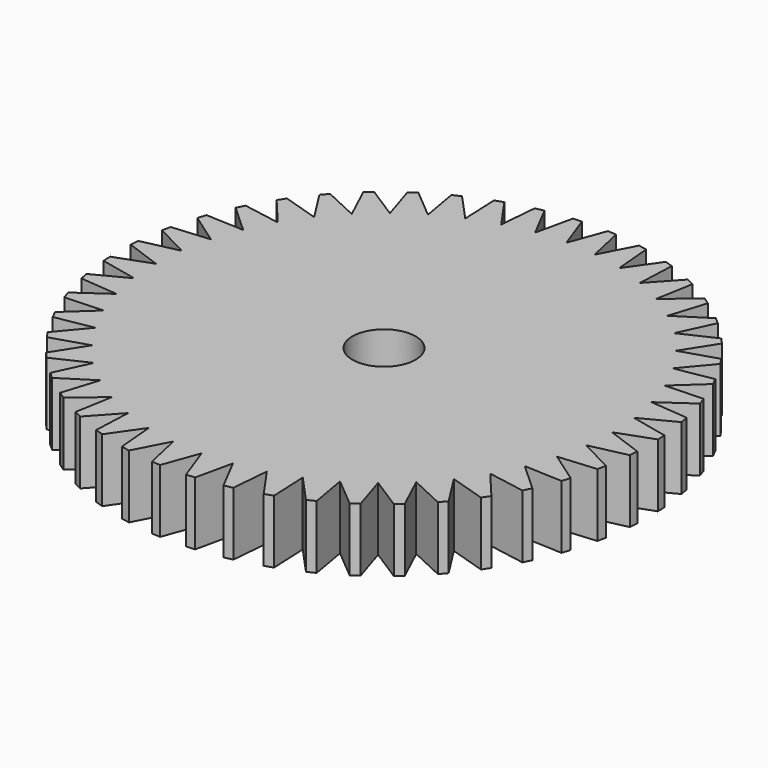
from build123d import *

# Parameters (mm, degrees)
F2_DEPTH = 3.175
F3_D     = 3.175


with BuildPart() as f2:
    # F1 (on Top) → F2 (new body)
    with BuildSketch(Plane.XY):
        Polygon((0.65056, 13.217399), (0, 11.43), (-0.65056, 13.217399), (-1.080222, 13.189238), (-1.491914, 11.332215), (-2.370211, 13.019408), (-2.792522, 12.935405), (-2.958302, 11.040532), (-4.049308, 12.59865), (-4.457041, 12.460243), (-4.374072, 10.559943), (-5.659119, 11.962326), (-6.045298, 11.771884), (-5.715, 9.89867), (-7.172101, 11.121324), (-7.530119, 10.882104), (-6.958143, 9.068029), (-8.562367, 10.090032), (-8.886097, 9.806128), (-8.082231, 8.082231), (-9.806128, 8.886097), (-10.090032, 8.562367), (-9.068029, 6.958143), (-10.882104, 7.530119), (-11.121324, 7.172101), (-9.89867, 5.715), (-11.771884, 6.045298), (-11.962326, 5.659119), (-10.559943, 4.374072), (-12.460243, 4.457041), (-12.59865, 4.049308), (-11.040532, 2.958302), (-12.935405, 2.792522), (-13.019408, 2.370211), (-11.332215, 1.491914), (-13.189238, 1.080222), (-13.217399, 0.65056), (-11.43, 0), (-13.217399, -0.65056), (-13.189238, -1.080222), (-11.332215, -1.491914), (-13.019408, -2.370211), (-12.935405, -2.792522), (-11.040532, -2.958302), (-12.59865, -4.049308), (-12.460243, -4.457041), (-10.559943, -4.374072), (-11.962326, -5.659119), (-11.771884, -6.045298), (-9.89867, -5.715), (-11.121324, -7.172101), (-10.882104, -7.530119), (-9.068029, -6.958143), (-10.090032, -8.562367), (-9.806128, -8.886097), (-8.082231, -8.082231), (-8.886097, -9.806128), (-8.562367, -10.090032), (-6.958143, -9.068029), (-7.530119, -10.882104), (-7.172101, -11.121324), (-5.715, -9.89867), (-6.045298, -11.771884), (-5.659119, -11.962326), (-4.374072, -10.559943), (-4.457041, -12.460243), (-4.049308, -12.59865), (-2.958302, -11.040532), (-2.792522, -12.935405), (-2.370211, -13.019408), (-1.491914, -11.332215), (-1.080222, -13.189238), (-0.65056, -13.217399), (0, -11.43), (0.65056, -13.217399), (1.080222, -13.189238), (1.491914, -11.332215), (2.370211, -13.019408), (2.792522, -12.935405), (2.958302, -11.040532), (4.049308, -12.59865), (4.457041, -12.460243), (4.374072, -10.559943), (5.659119, -11.962326), (6.045298, -11.771884), (5.715, -9.89867), (7.172101, -11.121324), (7.530119, -10.882104), (6.958143, -9.068029), (8.562367, -10.090032), (8.886097, -9.806128), (8.082231, -8.082231), (9.806128, -8.886097), (10.090032, -8.562367), (9.068029, -6.958143), (10.882104, -7.530119), (11.121324, -7.172101), (9.89867, -5.715), (11.771884, -6.045298), (11.962326, -5.659119), (10.559943, -4.374072), (12.460243, -4.457041), (12.59865, -4.049308), (11.040532, -2.958302), (12.935405, -2.792522), (13.019408, -2.370211), (11.332215, -1.491914), (13.189238, -1.080222), (13.217399, -0.65056), (11.43, 0), (13.217399, 0.65056), (13.189238, 1.080222), (11.332215, 1.491914), (13.019408, 2.370211), (12.935405, 2.792522), (11.040532, 2.958302), (12.59865, 4.049308), (12.460243, 4.457041), (10.559943, 4.374072), (11.962326, 5.659119), (11.771884, 6.045298), (9.89867, 5.715), (11.121324, 7.172101), (10.882104, 7.530119), (9.068029, 6.958143), (10.090032, 8.562367), (9.806128, 8.886097), (8.082231, 8.082231), (8.886097, 9.806128), (8.562367, 10.090032), (6.958143, 9.068029), (7.530119, 10.882104), (7.172101, 11.121324), (5.715, 9.89867), (6.045298, 11.771884), (5.659119, 11.962326), (4.374072, 10.559943), (4.457041, 12.460243), (4.049308, 12.59865), (2.958302, 11.040532), (2.792522, 12.935405), (2.370211, 13.019408), (1.491914, 11.332215), (1.080222, 13.189238), align=None)
    extrude(amount=F2_DEPTH)

    # F3 (through all)
    with Locations(Plane(origin=(0, 0, 0), x_dir=(1, 0, 0), z_dir=(0, 0, -1))):
        with Locations((0, 0)):
            Hole(F3_D / 2)


solid = f2.part
